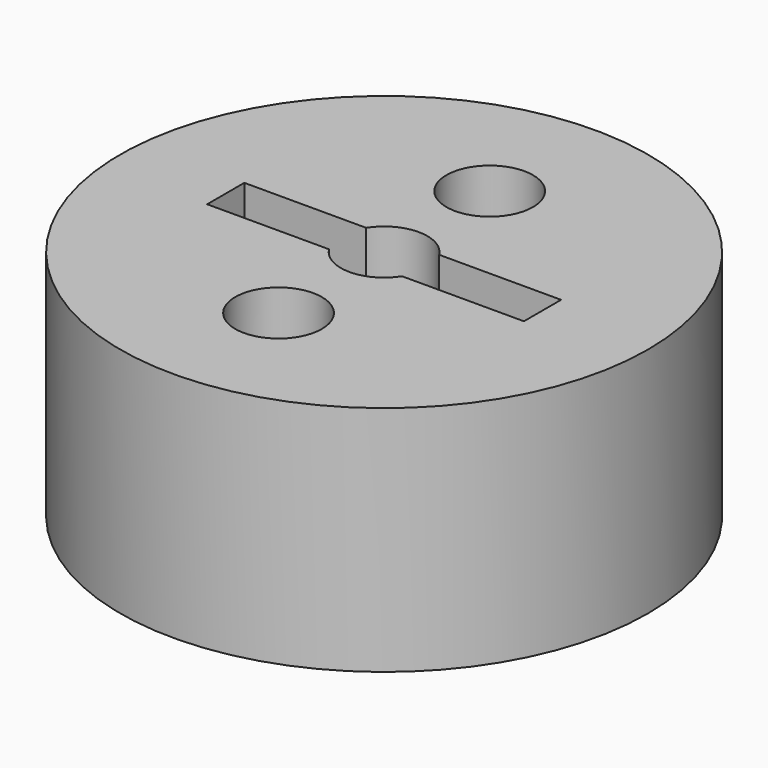
from build123d import *

# Parameters (mm, degrees)
F0_R     = 25
F0_R_2   = 4.1
F1_DEPTH = 22
F2_W     = 30
F2_H     = 4.4
F3_DEPTH = 5


with BuildPart() as f1:
    # F0 (on Top) → F1 (new body)
    with BuildSketch(Plane.XY):
        Circle(F0_R)
        with Locations((0, -12.5)):
            Circle(F0_R_2, mode=Mode.SUBTRACT)
        Circle(F0_R_2, mode=Mode.SUBTRACT)
        with Locations((0, 12.5)):
            Circle(F0_R_2, mode=Mode.SUBTRACT)
    extrude(amount=F1_DEPTH)

    # F2 (on face) → F3 (cut)
    with BuildSketch(Plane.XY.offset(22)):
        Rectangle(F2_W, F2_H)
    extrude(amount=-F3_DEPTH, mode=Mode.SUBTRACT)


solid = f1.part
